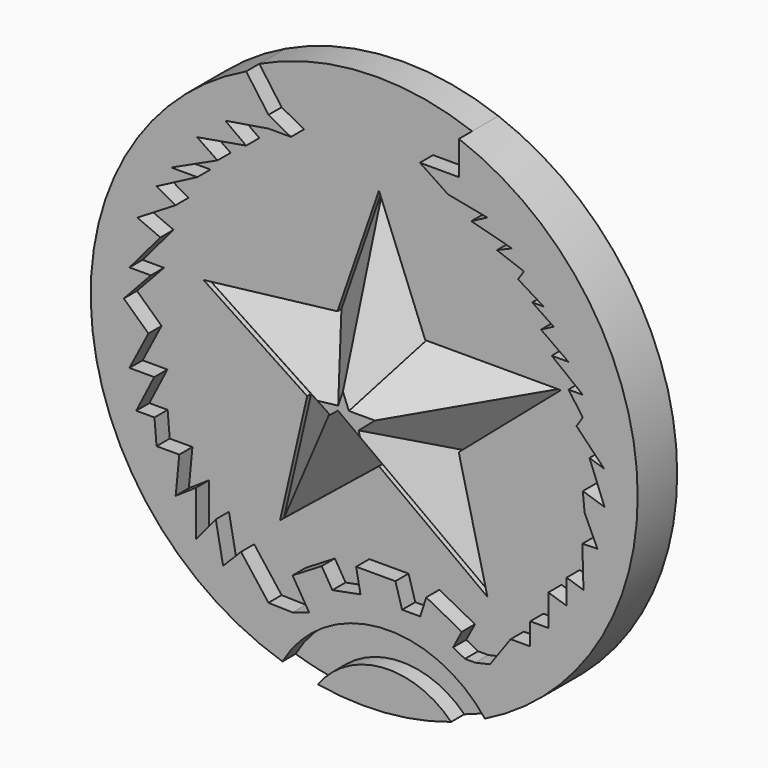
from build123d import *

# Parameters (mm, degrees)
F1_DEPTH = 3
F2_DEPTH = 2
F3_DEPTH = 2
F4_SIZE  = 3.3
F5_DEPTH = 2
F6_DEPTH = 2
F7_DEPTH = 2
F8_DEPTH = 2
F9_DEPTH = 2


with BuildPart() as f1:
    # F0 (on Front) → F1 (new body)
    with BuildSketch(Plane.XZ):
        Polygon((-2.9094829224, 5.3340517916), (-2.8125001118, 15.9131468951), (-5.3340522572, 8.6314659566), align=None)
        Polygon((0, 8.8254315779), (-2.8125001118, 15.9131468951), (-2.9094829224, 5.3340517916), align=None)
        Polygon((-2.9094829224, 5.3340517916), (-5.3340522572, 8.6314659566), (-13.4806036949, 7.6616383158), align=None)
        Polygon((-7.1767247282, 3.4913795535), (-2.9094829224, 5.3340517916), (-13.4806036949, 7.6616383158), align=None)
        Polygon((8.243534714, 8.8254315779), (0, 8.8254315779), (-2.9094829224, 5.3340517916), align=None)
        Polygon((8.243534714, 8.8254315779), (-2.9094829224, 5.3340517916), (2.0366373938, 3.4913795535), align=None)
        Polygon((-8.8254315779, -3.6853456404), (-2.9094829224, 5.3340517916), (-7.1767247282, 3.4913795535), align=None)
        Polygon((-2.8125001118, 1.1637929128), (-2.9094829224, 5.3340517916), (-8.8254315779, -3.6853456404), align=None)
        Polygon((3.7823272869, -3.6853456404), (-2.9094829224, 5.3340517916), (-2.8125001118, 1.1637929128), align=None)
        Polygon((2.0366373938, 3.4913795535), (-2.9094829224, 5.3340517916), (3.7823272869, -3.6853456404), align=None)
    extrude(amount=F1_DEPTH)

    # F3 (add): a face of the model
    f3_faces = [f1.faces().sort_by_distance(p)[0] for p in [
        (-2.5034448748, -3, 5.2057938326),
    ]]
    extrude(f3_faces, amount=F3_DEPTH)

    # F4
    f4_edges = [f1.edges().sort_by_distance(p)[0] for p in [
        (-4.073276, -5, 12.272306),
        (-9.407328, -5, 8.146552),
        (-10.328664, -5, 5.576509),
        (-8.001078, -5, -0.096983),
        (-5.818966, -5, -1.260776),
        (0.484914, -5, -1.260776),
        (2.909482, -5, -0.096983),
        (5.140086, -5, 6.158406),
        (4.121767, -5, 8.825432),
        (-1.40625, -5, 12.369289),
    ]]
    chamfer(f4_edges, length=F4_SIZE)



with BuildPart() as f1b:
    # F0 (on Front) → F1, piece 2 (new body)
    with BuildSketch(Plane.XZ):
        with BuildLine():
            ThreePointArc((4.4283002833, -9.5835471808), (11.2037314827, -3.4520167621), (13.7151320047, 5.3340517916))
            ThreePointArc((13.7151320047, 5.3340517916), (10.7310465973, 14.8374078249), (2.8500651996, 20.9290967388))
            Line((2.8500651996, 20.9290967388), (2.8500651996, 18.8789289812))
            Line((2.8500651996, 18.8789289812), (0.4760651996, 18.8789289812))
            Line((0.4760651996, 18.8789289812), (2.1871512536, 17.7409715512))
            Line((2.1871512536, 17.7409715512), (4.5712292194, 17.2758772969))
            Line((4.5712292194, 17.2758772969), (3.5964324441, 16.7656169206))
            Line((3.5964324441, 16.7656169206), (6.074462086, 16.1120835692))
            Line((6.074462086, 16.1120835692), (5.1567698243, 15.7236226529))
            Line((5.1567698243, 15.7236226529), (6.8011306157, 15.1184809783))
            Line((6.8011306157, 15.1184809783), (6.4426354086, 14.583132761))
            Line((6.4426354086, 14.583132761), (7.997601293, 13.6255662795))
            Line((7.997601293, 13.6255662795), (7.3012175213, 13.6255662795))
            Line((7.3012175213, 13.6255662795), (8.6092445999, 12.7496477216))
            Line((8.6092445999, 12.7496477216), (7.8344959766, 12.3418858275))
            Line((7.8344959766, 12.3418858275), (9.5062474326, 11.1593753099))
            Line((9.5062474326, 11.1593753099), (8.4869153798, 11.1593753099))
            Line((8.4869153798, 11.1593753099), (10.3791300327, 9.6765459837))
            Line((10.3791300327, 9.6765459837), (9.5062474326, 9.6765459837))
            Line((9.5062474326, 9.6765459837), (10.3791300327, 8.4681436419))
            Line((10.3791300327, 8.4681436419), (9.9943487425, 7.8833152969))
            Line((9.9943487425, 7.8833152969), (11.670470804, 6.1487295399))
            Line((11.670470804, 6.1487295399), (10.7850682071, 6.4333233865))
            Line((10.7850682071, 6.4333233865), (11.6964637332, 4.104702718))
            Line((11.6964637332, 4.104702718), (10.3791300327, 4.5281316377))
            Line((10.3791300327, 4.5281316377), (10.4849515483, 3.4118918702))
            Line((10.4849515483, 3.4118918702), (11.2657553922, 1.7267458108))
            Line((11.2657553922, 1.7267458108), (10.3501577993, 1.7012165811))
            Line((10.3501577993, 1.7012165811), (10.4185073352, -0.7501174924))
            Line((10.4185073352, -0.7501174924), (9.3948157162, -0.4210735788))
            Line((9.3948157162, -0.4210735788), (9.3948157162, -1.9323701994))
            Line((9.3948157162, -1.9323701994), (8.2830348983, -1.5750118851))
            Line((8.2830348983, -1.5750118851), (8.2830348983, -3.4792907536))
            Line((8.2830348983, -3.4792907536), (7.182077039, -3.4792907536))
            Line((7.182077039, -3.4792907536), (7.182077039, -4.8249065876))
            Line((7.182077039, -4.8249065876), (5.9921408401, -4.8249065876))
            Line((5.9921408401, -4.8249065876), (4.7355033457, -6.5782843158))
            Line((4.7355033457, -6.5782843158), (3.8381169077, -6.7810096984))
            Line((3.8381169077, -6.7810096984), (3.2125036093, -6.7810096984))
            Line((3.2125036093, -6.7810096984), (2.4921353206, -6.4004377093))
            Line((2.4921353206, -6.4004377093), (3.0229012482, -5.3957737982))
            Line((3.0229012482, -5.3957737982), (0.8617614512, -4.254039377))
            Line((0.8617614512, -4.254039377), (0.4947751877, -5.3957737982))
            Line((0.4947751877, -5.3957737982), (-0.6061829044, -5.3957737982))
            Line((-0.6061829044, -5.3957737982), (-1.0139452061, -3.9998357253))
            Line((-1.0139452061, -3.9998357253), (-3.4008895893, -3.9998357253))
            Line((-3.4008895893, -3.9998357253), (-3.1343090814, -5.3957737982))
            Line((-3.1343090814, -5.3957737982), (-4.8424930206, -5.7219834998))
            Line((-4.8424930206, -5.7219834998), (-5.4942430794, -4.6479986846))
            Line((-5.4942430794, -4.6479986846), (-7.264006454, -5.7219834998))
            Line((-7.264006454, -5.7219834998), (-6.2536039181, -7.3869729636))
            Line((-6.2536039181, -7.3869729636), (-7.264006454, -7.7025805425))
            Line((-7.264006454, -7.7025805425), (-8.7284492329, -7.6616378501))
            Line((-8.7284492329, -7.6616378501), (-10.3970447894, -5.4800146658))
            Line((-10.3970447894, -5.4800146658), (-11.4878620952, -6.5837604925))
            Line((-11.4878620952, -6.5837604925), (-11.9303441546, -4.2383919239))
            Line((-11.9303441546, -4.2383919239), (-13.1337139755, -5.6922570802))
            Line((-13.1337139755, -5.6922570802), (-13.1337139755, -2.9407724016))
            Line((-13.1337139755, -2.9407724016), (-14.3681038171, -3.7720969412))
            Line((-14.3681038171, -3.7720969412), (-14.1504084711, -1.4959708194))
            Line((-14.1504084711, -1.4959708194), (-15.5320172759, -1.4959708194))
            Line((-15.5320172759, -1.4959708194), (-15.6585418075, 0))
            Line((-15.6585418075, 0), (-16.7683046311, 0))
            Line((-16.7683046311, 0), (-15.6728449812, 2.1553405727))
            Line((-15.6728449812, 2.1553405727), (-17.1797698075, 2.1553405727))
            Line((-17.1797698075, 2.1553405727), (-16.0274783996, 4.3718612089))
            Line((-16.0274783996, 4.3718612089), (-17.5226535648, 5.7601300068))
            Line((-17.5226535648, 5.7601300068), (-15.8778441363, 7.5316012182))
            Line((-15.8778441363, 7.5316012182), (-17.1797685325, 7.5316012182))
            Line((-17.1797685325, 7.5316012182), (-15.2994652186, 9.7494741673))
            Line((-15.2994652186, 9.7494741673), (-16.6997276247, 10.3548001498))
            Line((-16.6997276247, 10.3548001498), (-14.3811268375, 11.76903446))
            Line((-14.3811268375, 11.76903446), (-15.5339147896, 12.4121150002))
            Line((-15.5339147896, 12.4121150002), (-13.0538415971, 13.7066023669))
            Line((-13.0538415971, 13.7066023669), (-14.6424150512, 13.7066023669))
            Line((-14.6424150512, 13.7066023669), (-11.8277276588, 15.0021708888))
            Line((-11.8277276588, 15.0021708888), (-13.0651379004, 15.8409737051))
            Line((-13.0651379004, 15.8409737051), (-10.0842806564, 16.3581115489))
            Line((-10.0842806564, 16.3581115489), (-11.3507080823, 17.281094566))
            Line((-11.3507080823, 17.281094566), (-8.7284492329, 17.7101249002))
            Line((-8.7284492329, 17.7101249002), (-7.3637427337, 17.7101249002))
            Line((-7.3637427337, 17.7101249002), (-8.7284492329, 18.4469055384))
            Line((-8.7284492329, 18.4469055384), (-10.0842806564, 20.3307213869))
            ThreePointArc((-10.0842806564, 20.3307213869), (-19.4918206864, 4.1491907208), (-7.8791563188, -10.5303791093))
            ThreePointArc((-7.8791563188, -10.5303791093), (-1.9775510761, -6.7797251204), (4.4283002833, -9.5835471808))
        make_face()
    extrude(amount=F1_DEPTH)

    # F5 (add): a face of the model
    f5_faces = [f1b.faces().sort_by_distance(p)[0] for p in [
        (13.2358144867, -3, 6.1691506731),
    ]]
    extrude(f5_faces, amount=F5_DEPTH)


with BuildPart() as f1c:
    # F0 (on Front) → F1, piece 3 (new body)
    with BuildSketch(Plane.XZ):
        with BuildLine():
            ThreePointArc((-5.7204502098, -11.0511941445), (-1.6342932532, -11.2415843284), (2.3746590433, -10.4284247004))
            ThreePointArc((2.3746590433, -10.4284247004), (-1.8164707429, -8.8735383416), (-5.7204502098, -11.0511941445))
        make_face()
    extrude(amount=F1_DEPTH)

    # F6 (add): a face of the model
    f6_faces = [f1c.faces().sort_by_distance(p)[0] for p in [
        (-1.7160945327, -3, -10.1782850592),
    ]]
    extrude(f6_faces, amount=F6_DEPTH)

    # F9 (cut): a face of the model
    f9_faces = [f1c.faces().sort_by_distance(p)[0] for p in [
        (-1.7160945327, -5, -10.1782850592),
    ]]
    extrude(f9_faces, amount=-F9_DEPTH, mode=Mode.SUBTRACT)


with BuildPart() as f2:
    # F0 (on Front) → F2 (new body)
    with BuildSketch(Plane.XZ):
        with BuildLine():
            ThreePointArc((4.4283002833, -9.5835471808), (11.2037314827, -3.4520167621), (13.7151320047, 5.3340517916))
            ThreePointArc((13.7151320047, 5.3340517916), (10.7310465973, 14.8374078249), (2.8500651996, 20.9290967388))
            Line((2.8500651996, 20.9290967388), (2.8500651996, 18.8789289812))
            Line((2.8500651996, 18.8789289812), (0.4760651996, 18.8789289812))
            Line((0.4760651996, 18.8789289812), (2.1871512536, 17.7409715512))
            Line((2.1871512536, 17.7409715512), (4.5712292194, 17.2758772969))
            Line((4.5712292194, 17.2758772969), (3.5964324441, 16.7656169206))
            Line((3.5964324441, 16.7656169206), (6.074462086, 16.1120835692))
            Line((6.074462086, 16.1120835692), (5.1567698243, 15.7236226529))
            Line((5.1567698243, 15.7236226529), (6.8011306157, 15.1184809783))
            Line((6.8011306157, 15.1184809783), (6.4426354086, 14.583132761))
            Line((6.4426354086, 14.583132761), (7.997601293, 13.6255662795))
            Line((7.997601293, 13.6255662795), (7.3012175213, 13.6255662795))
            Line((7.3012175213, 13.6255662795), (8.6092445999, 12.7496477216))
            Line((8.6092445999, 12.7496477216), (7.8344959766, 12.3418858275))
            Line((7.8344959766, 12.3418858275), (9.5062474326, 11.1593753099))
            Line((9.5062474326, 11.1593753099), (8.4869153798, 11.1593753099))
            Line((8.4869153798, 11.1593753099), (10.3791300327, 9.6765459837))
            Line((10.3791300327, 9.6765459837), (9.5062474326, 9.6765459837))
            Line((9.5062474326, 9.6765459837), (10.3791300327, 8.4681436419))
            Line((10.3791300327, 8.4681436419), (9.9943487425, 7.8833152969))
            Line((9.9943487425, 7.8833152969), (11.670470804, 6.1487295399))
            Line((11.670470804, 6.1487295399), (10.7850682071, 6.4333233865))
            Line((10.7850682071, 6.4333233865), (11.6964637332, 4.104702718))
            Line((11.6964637332, 4.104702718), (10.3791300327, 4.5281316377))
            Line((10.3791300327, 4.5281316377), (10.4849515483, 3.4118918702))
            Line((10.4849515483, 3.4118918702), (11.2657553922, 1.7267458108))
            Line((11.2657553922, 1.7267458108), (10.3501577993, 1.7012165811))
            Line((10.3501577993, 1.7012165811), (10.4185073352, -0.7501174924))
            Line((10.4185073352, -0.7501174924), (9.3948157162, -0.4210735788))
            Line((9.3948157162, -0.4210735788), (9.3948157162, -1.9323701994))
            Line((9.3948157162, -1.9323701994), (8.2830348983, -1.5750118851))
            Line((8.2830348983, -1.5750118851), (8.2830348983, -3.4792907536))
            Line((8.2830348983, -3.4792907536), (7.182077039, -3.4792907536))
            Line((7.182077039, -3.4792907536), (7.182077039, -4.8249065876))
            Line((7.182077039, -4.8249065876), (5.9921408401, -4.8249065876))
            Line((5.9921408401, -4.8249065876), (4.7355033457, -6.5782843158))
            Line((4.7355033457, -6.5782843158), (3.8381169077, -6.7810096984))
            Line((3.8381169077, -6.7810096984), (3.2125036093, -6.7810096984))
            Line((3.2125036093, -6.7810096984), (2.4921353206, -6.4004377093))
            Line((2.4921353206, -6.4004377093), (3.0229012482, -5.3957737982))
            Line((3.0229012482, -5.3957737982), (0.8617614512, -4.254039377))
            Line((0.8617614512, -4.254039377), (0.4947751877, -5.3957737982))
            Line((0.4947751877, -5.3957737982), (-0.6061829044, -5.3957737982))
            Line((-0.6061829044, -5.3957737982), (-1.0139452061, -3.9998357253))
            Line((-1.0139452061, -3.9998357253), (-3.4008895893, -3.9998357253))
            Line((-3.4008895893, -3.9998357253), (-3.1343090814, -5.3957737982))
            Line((-3.1343090814, -5.3957737982), (-4.8424930206, -5.7219834998))
            Line((-4.8424930206, -5.7219834998), (-5.4942430794, -4.6479986846))
            Line((-5.4942430794, -4.6479986846), (-7.264006454, -5.7219834998))
            Line((-7.264006454, -5.7219834998), (-6.2536039181, -7.3869729636))
            Line((-6.2536039181, -7.3869729636), (-7.264006454, -7.7025805425))
            Line((-7.264006454, -7.7025805425), (-8.7284492329, -7.6616378501))
            Line((-8.7284492329, -7.6616378501), (-10.3970447894, -5.4800146658))
            Line((-10.3970447894, -5.4800146658), (-11.4878620952, -6.5837604925))
            Line((-11.4878620952, -6.5837604925), (-11.9303441546, -4.2383919239))
            Line((-11.9303441546, -4.2383919239), (-13.1337139755, -5.6922570802))
            Line((-13.1337139755, -5.6922570802), (-13.1337139755, -2.9407724016))
            Line((-13.1337139755, -2.9407724016), (-14.3681038171, -3.7720969412))
            Line((-14.3681038171, -3.7720969412), (-14.1504084711, -1.4959708194))
            Line((-14.1504084711, -1.4959708194), (-15.5320172759, -1.4959708194))
            Line((-15.5320172759, -1.4959708194), (-15.6585418075, 0))
            Line((-15.6585418075, 0), (-16.7683046311, 0))
            Line((-16.7683046311, 0), (-15.6728449812, 2.1553405727))
            Line((-15.6728449812, 2.1553405727), (-17.1797698075, 2.1553405727))
            Line((-17.1797698075, 2.1553405727), (-16.0274783996, 4.3718612089))
            Line((-16.0274783996, 4.3718612089), (-17.5226535648, 5.7601300068))
            Line((-17.5226535648, 5.7601300068), (-15.8778441363, 7.5316012182))
            Line((-15.8778441363, 7.5316012182), (-17.1797685325, 7.5316012182))
            Line((-17.1797685325, 7.5316012182), (-15.2994652186, 9.7494741673))
            Line((-15.2994652186, 9.7494741673), (-16.6997276247, 10.3548001498))
            Line((-16.6997276247, 10.3548001498), (-14.3811268375, 11.76903446))
            Line((-14.3811268375, 11.76903446), (-15.5339147896, 12.4121150002))
            Line((-15.5339147896, 12.4121150002), (-13.0538415971, 13.7066023669))
            Line((-13.0538415971, 13.7066023669), (-14.6424150512, 13.7066023669))
            Line((-14.6424150512, 13.7066023669), (-11.8277276588, 15.0021708888))
            Line((-11.8277276588, 15.0021708888), (-13.0651379004, 15.8409737051))
            Line((-13.0651379004, 15.8409737051), (-10.0842806564, 16.3581115489))
            Line((-10.0842806564, 16.3581115489), (-11.3507080823, 17.281094566))
            Line((-11.3507080823, 17.281094566), (-8.7284492329, 17.7101249002))
            Line((-8.7284492329, 17.7101249002), (-7.3637427337, 17.7101249002))
            Line((-7.3637427337, 17.7101249002), (-8.7284492329, 18.4469055384))
            Line((-8.7284492329, 18.4469055384), (-10.0842806564, 20.3307213869))
            ThreePointArc((-10.0842806564, 20.3307213869), (-19.4918206864, 4.1491907208), (-7.8791563188, -10.5303791093))
            ThreePointArc((-7.8791563188, -10.5303791093), (-1.9775510761, -6.7797251204), (4.4283002833, -9.5835471808))
        make_face()
        with BuildLine():
            Line((2.8500651996, 18.8789289812), (2.8500651996, 20.9290967388))
            ThreePointArc((2.8500651996, 20.9290967388), (-3.6777576985, 21.9409050559), (-10.0842806564, 20.3307213869))
            Line((-10.0842806564, 20.3307213869), (-8.7284492329, 18.4469055384))
            Line((-8.7284492329, 18.4469055384), (-7.3637427337, 17.7101249002))
            Line((-7.3637427337, 17.7101249002), (-8.7284492329, 17.7101249002))
            Line((-8.7284492329, 17.7101249002), (-11.3507080823, 17.281094566))
            Line((-11.3507080823, 17.281094566), (-10.0842806564, 16.3581115489))
            Line((-10.0842806564, 16.3581115489), (-13.0651379004, 15.8409737051))
            Line((-13.0651379004, 15.8409737051), (-11.8277276588, 15.0021708888))
            Line((-11.8277276588, 15.0021708888), (-14.6424150512, 13.7066023669))
            Line((-14.6424150512, 13.7066023669), (-13.0538415971, 13.7066023669))
            Line((-13.0538415971, 13.7066023669), (-15.5339147896, 12.4121150002))
            Line((-15.5339147896, 12.4121150002), (-14.3811268375, 11.76903446))
            Line((-14.3811268375, 11.76903446), (-16.6997276247, 10.3548001498))
            Line((-16.6997276247, 10.3548001498), (-15.2994652186, 9.7494741673))
            Line((-15.2994652186, 9.7494741673), (-17.1797685325, 7.5316012182))
            Line((-17.1797685325, 7.5316012182), (-15.8778441363, 7.5316012182))
            Line((-15.8778441363, 7.5316012182), (-17.5226535648, 5.7601300068))
            Line((-17.5226535648, 5.7601300068), (-16.0274783996, 4.3718612089))
            Line((-16.0274783996, 4.3718612089), (-17.1797698075, 2.1553405727))
            Line((-17.1797698075, 2.1553405727), (-15.6728449812, 2.1553405727))
            Line((-15.6728449812, 2.1553405727), (-16.7683046311, 0))
            Line((-16.7683046311, 0), (-15.6585418075, 0))
            Line((-15.6585418075, 0), (-15.5320172759, -1.4959708194))
            Line((-15.5320172759, -1.4959708194), (-14.1504084711, -1.4959708194))
            Line((-14.1504084711, -1.4959708194), (-14.3681038171, -3.7720969412))
            Line((-14.3681038171, -3.7720969412), (-13.1337139755, -2.9407724016))
            Line((-13.1337139755, -2.9407724016), (-13.1337139755, -5.6922570802))
            Line((-13.1337139755, -5.6922570802), (-11.9303441546, -4.2383919239))
            Line((-11.9303441546, -4.2383919239), (-11.4878620952, -6.5837604925))
            Line((-11.4878620952, -6.5837604925), (-10.3970447894, -5.4800146658))
            Line((-10.3970447894, -5.4800146658), (-8.7284492329, -7.6616378501))
            Line((-8.7284492329, -7.6616378501), (-7.264006454, -7.7025805425))
            Line((-7.264006454, -7.7025805425), (-6.2536039181, -7.3869729636))
            Line((-6.2536039181, -7.3869729636), (-7.264006454, -5.7219834998))
            Line((-7.264006454, -5.7219834998), (-5.4942430794, -4.6479986846))
            Line((-5.4942430794, -4.6479986846), (-4.8424930206, -5.7219834998))
            Line((-4.8424930206, -5.7219834998), (-3.1343090814, -5.3957737982))
            Line((-3.1343090814, -5.3957737982), (-3.4008895893, -3.9998357253))
            Line((-3.4008895893, -3.9998357253), (-1.0139452061, -3.9998357253))
            Line((-1.0139452061, -3.9998357253), (-0.6061829044, -5.3957737982))
            Line((-0.6061829044, -5.3957737982), (0.4947751877, -5.3957737982))
            Line((0.4947751877, -5.3957737982), (0.8617614512, -4.254039377))
            Line((0.8617614512, -4.254039377), (3.0229012482, -5.3957737982))
            Line((3.0229012482, -5.3957737982), (2.4921353206, -6.4004377093))
            Line((2.4921353206, -6.4004377093), (3.2125036093, -6.7810096984))
            Line((3.2125036093, -6.7810096984), (3.8381169077, -6.7810096984))
            Line((3.8381169077, -6.7810096984), (4.7355033457, -6.5782843158))
            Line((4.7355033457, -6.5782843158), (5.9921408401, -4.8249065876))
            Line((5.9921408401, -4.8249065876), (7.182077039, -4.8249065876))
            Line((7.182077039, -4.8249065876), (7.182077039, -3.4792907536))
            Line((7.182077039, -3.4792907536), (8.2830348983, -3.4792907536))
            Line((8.2830348983, -3.4792907536), (8.2830348983, -1.5750118851))
            Line((8.2830348983, -1.5750118851), (9.3948157162, -1.9323701994))
            Line((9.3948157162, -1.9323701994), (9.3948157162, -0.4210735788))
            Line((9.3948157162, -0.4210735788), (10.4185073352, -0.7501174924))
            Line((10.4185073352, -0.7501174924), (10.3501577993, 1.7012165811))
            Line((10.3501577993, 1.7012165811), (11.2657553922, 1.7267458108))
            Line((11.2657553922, 1.7267458108), (10.4849515483, 3.4118918702))
            Line((10.4849515483, 3.4118918702), (10.3791300327, 4.5281316377))
            Line((10.3791300327, 4.5281316377), (11.6964637332, 4.104702718))
            Line((11.6964637332, 4.104702718), (10.7850682071, 6.4333233865))
            Line((10.7850682071, 6.4333233865), (11.670470804, 6.1487295399))
            Line((11.670470804, 6.1487295399), (9.9943487425, 7.8833152969))
            Line((9.9943487425, 7.8833152969), (10.3791300327, 8.4681436419))
            Line((10.3791300327, 8.4681436419), (9.5062474326, 9.6765459837))
            Line((9.5062474326, 9.6765459837), (10.3791300327, 9.6765459837))
            Line((10.3791300327, 9.6765459837), (8.4869153798, 11.1593753099))
            Line((8.4869153798, 11.1593753099), (9.5062474326, 11.1593753099))
            Line((9.5062474326, 11.1593753099), (7.8344959766, 12.3418858275))
            Line((7.8344959766, 12.3418858275), (8.6092445999, 12.7496477216))
            Line((8.6092445999, 12.7496477216), (7.3012175213, 13.6255662795))
            Line((7.3012175213, 13.6255662795), (7.997601293, 13.6255662795))
            Line((7.997601293, 13.6255662795), (6.4426354086, 14.583132761))
            Line((6.4426354086, 14.583132761), (6.8011306157, 15.1184809783))
            Line((6.8011306157, 15.1184809783), (5.1567698243, 15.7236226529))
            Line((5.1567698243, 15.7236226529), (6.074462086, 16.1120835692))
            Line((6.074462086, 16.1120835692), (3.5964324441, 16.7656169206))
            Line((3.5964324441, 16.7656169206), (4.5712292194, 17.2758772969))
            Line((4.5712292194, 17.2758772969), (2.1871512536, 17.7409715512))
            Line((2.1871512536, 17.7409715512), (0.4760651996, 18.8789289812))
            Line((0.4760651996, 18.8789289812), (2.8500651996, 18.8789289812))
        make_face()
        Polygon((-5.3340522572, 8.6314659566), (-2.8125001118, 15.9131468951), (0, 8.8254315779), (8.243534714, 8.8254315779), (2.0366373938, 3.4913795535), (3.7823272869, -3.6853456404), (-2.8125001118, 1.1637929128), (-8.8254315779, -3.6853456404), (-7.1767247282, 3.4913795535), (-13.4806036949, 7.6616383158), align=None, mode=Mode.SUBTRACT)
        with BuildLine():
            ThreePointArc((2.3746590433, -10.4284247004), (3.4156023153, -10.0403138282), (4.4283002833, -9.5835471808))
            ThreePointArc((4.4283002833, -9.5835471808), (-1.9775510761, -6.7797251204), (-7.8791563188, -10.5303791093))
            ThreePointArc((-7.8791563188, -10.5303791093), (-6.8085090107, -10.826870739), (-5.7204502098, -11.0511941445))
            ThreePointArc((-5.7204502098, -11.0511941445), (-1.8164707429, -8.8735383416), (2.3746590433, -10.4284247004))
        make_face()
        with BuildLine():
            ThreePointArc((-5.7204502098, -11.0511941445), (-1.6342932532, -11.2415843284), (2.3746590433, -10.4284247004))
            ThreePointArc((2.3746590433, -10.4284247004), (-1.8164707429, -8.8735383416), (-5.7204502098, -11.0511941445))
        make_face()
    extrude(amount=F2_DEPTH)


with BuildPart() as f1_1:
    add(f1.part)
    # F7 (cut): a face of the model
    f7_faces = [f1b.part.faces().sort_by_distance(p)[0] for p in [
        (13.2358144867, -5, 6.1691506731),
    ]]
    extrude(f7_faces, amount=F7_DEPTH, mode=Mode.SUBTRACT)


with BuildPart() as f1b_1:
    add(f1b.part)

    # F8 (cut): a face of the model
    f8_faces = [f1b_1.faces().sort_by_distance(p)[0] for p in [
        (13.2358144867, -5, 6.1691506731),
    ]]
    extrude(f8_faces, amount=-F8_DEPTH, mode=Mode.SUBTRACT)


solid = Compound([f1c.part, f2.part, f1_1.part, f1b_1.part])
